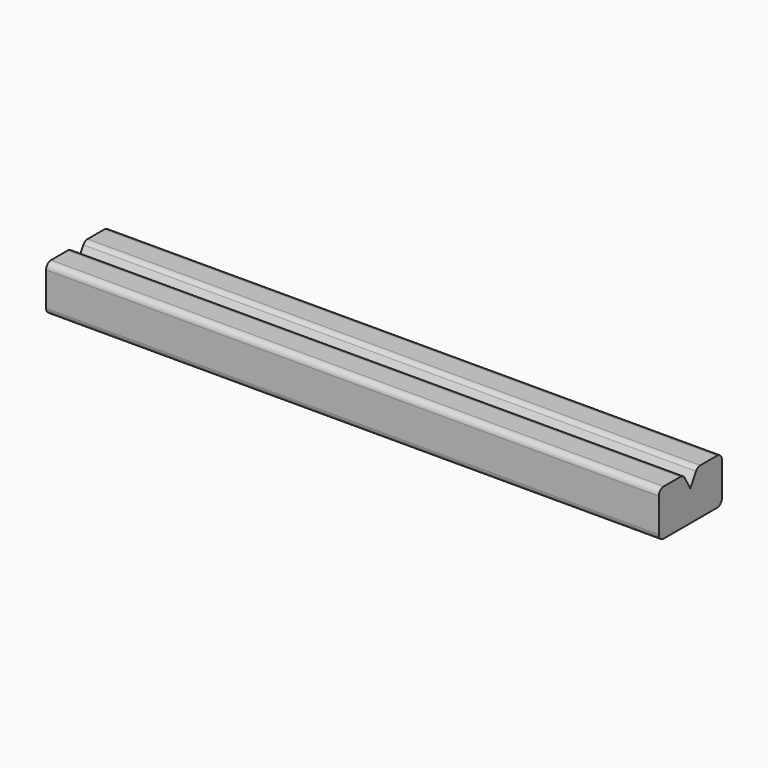
from build123d import *

# Parameters (mm, degrees)
F1_DEPTH = 20
F2_R     = 0.2


with BuildPart() as f1:
    # F0 (on Right) → F1 (new body)
    with BuildSketch(Plane.YZ):
        Polygon((1, 1.5), (0, 1.5), (0, 0), (2.57735, 0), (2.57735, 1.5), (1.57735, 1.5), (1.288675, 1), align=None)
    extrude(amount=F1_DEPTH)

    # F2
    f2_edges = [f1.edges().sort_by_distance(p)[0] for p in [
        (10, 1, 1.5),
        (10, 0, 1.5),
        (10, 1.57735, 1.5),
        (10, 2.57735, 1.5),
        (10, 2.57735, 0),
        (10, 0, 0),
    ]]
    fillet(f2_edges, radius=F2_R)


solid = f1.part
